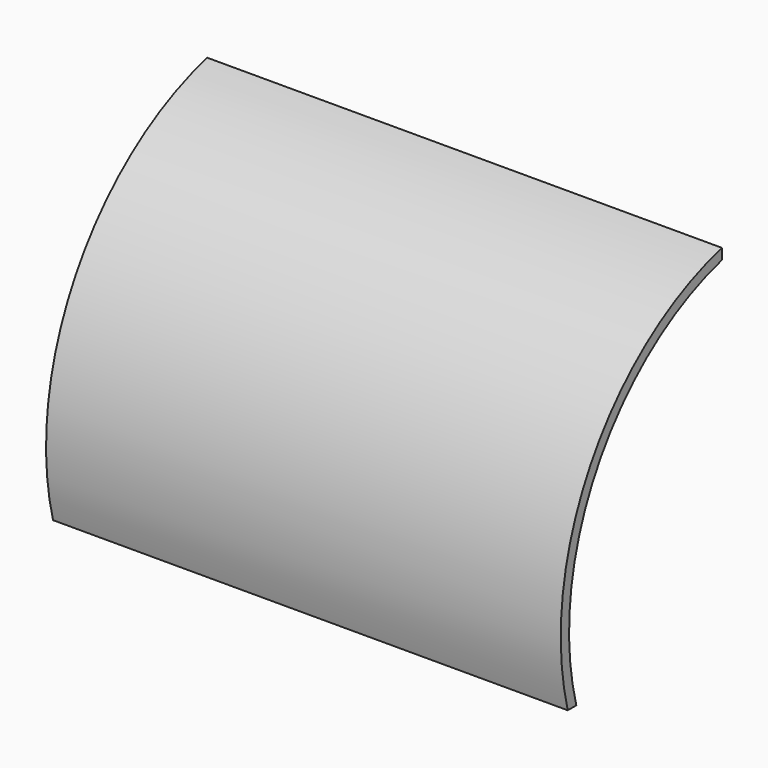
from build123d import *

# Parameters (mm, degrees)
F0_W = 243.84
F0_H = 5.08


with BuildPart() as f2:
    # F2: sweep along a path in F1
    with BuildLine(Plane.YZ) as f2_path:
        ThreePointArc((0, 9.346869), (-77.418796, -49.427957), (-90.602071, -145.73139))
    # F0 (on Front) → F2 (sweep)
    with BuildSketch(Plane.XZ):
        with Locations((0, 7.498003)):
            Rectangle(F0_W, F0_H)
    sweep(path=f2_path.line)


solid = f2.part
